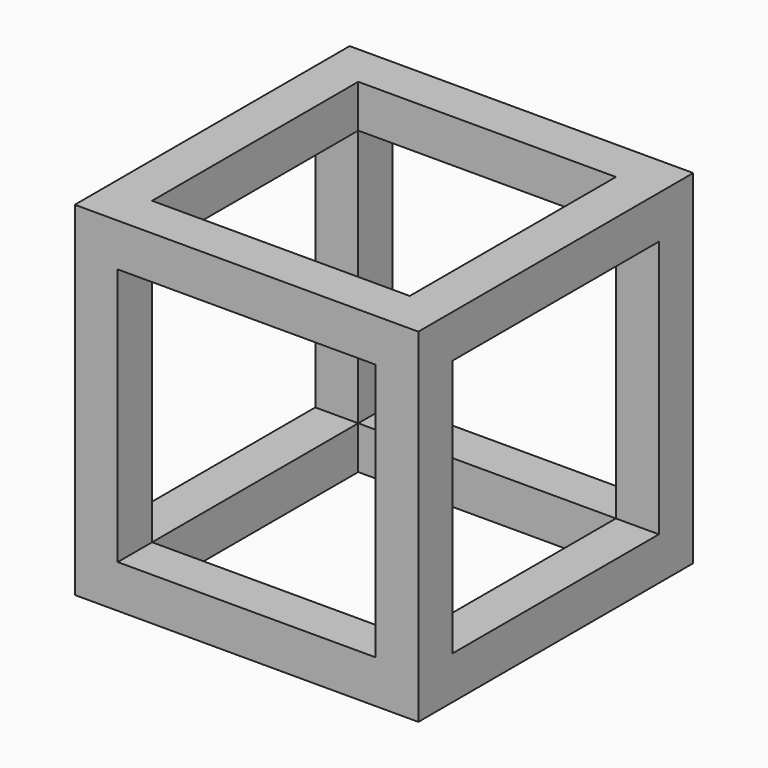
from build123d import *

# Parameters (mm, degrees)
F0_W      = 101.6
F0_H      = 101.6
F1_DEPTH  = 101.6
F2_W      = 76.2
F2_H      = 76.2
F3_DEPTH  = 76.2
F3_FACE_W = 76.2
F3_FACE_H = 76.2
F4_DEPTH  = 25.4
F5_W      = 76.2
F5_H      = 76.2
F6_DEPTH  = 101.6
F7_W      = 76.2
F7_H      = 76.2
F8_DEPTH  = 101.6


with BuildPart() as f1:
    # F0 (on Front) → F1 (new body)
    with BuildSketch(Plane.XZ):
        with Locations((-4.952999, 18.993384)):
            Rectangle(F0_W, F0_H)
    extrude(amount=-F1_DEPTH)

    # F2 (on face) → F3 (cut)
    with BuildSketch(Plane.XY.offset(69.793384)):
        with Locations((-4.952999, 50.8)):
            Rectangle(F2_W, F2_H)
    extrude(amount=-F3_DEPTH, mode=Mode.SUBTRACT)

    # F3_face (on face) → F4 (cut)
    with BuildSketch(Plane(origin=(-4.952999, 50.8, -6.406616), x_dir=(1, 0, 0), z_dir=(0, 0, 1))):
        Rectangle(F3_FACE_W, F3_FACE_H)
    extrude(amount=-F4_DEPTH, mode=Mode.SUBTRACT)

    # F5 (on face) → F6 (cut)
    with BuildSketch(Plane(origin=(0, 101.6, 0), x_dir=(-1, 0, 0), z_dir=(0, 1, 0))):
        with Locations((4.952999, 18.993384)):
            Rectangle(F5_W, F5_H)
    extrude(amount=-F6_DEPTH, mode=Mode.SUBTRACT)

    # F7 (on face) → F8 (cut)
    with BuildSketch(Plane.YZ.offset(45.847001)):
        with Locations((50.8, 18.993384)):
            Rectangle(F7_W, F7_H)
    extrude(amount=-F8_DEPTH, mode=Mode.SUBTRACT)


solid = f1.part
